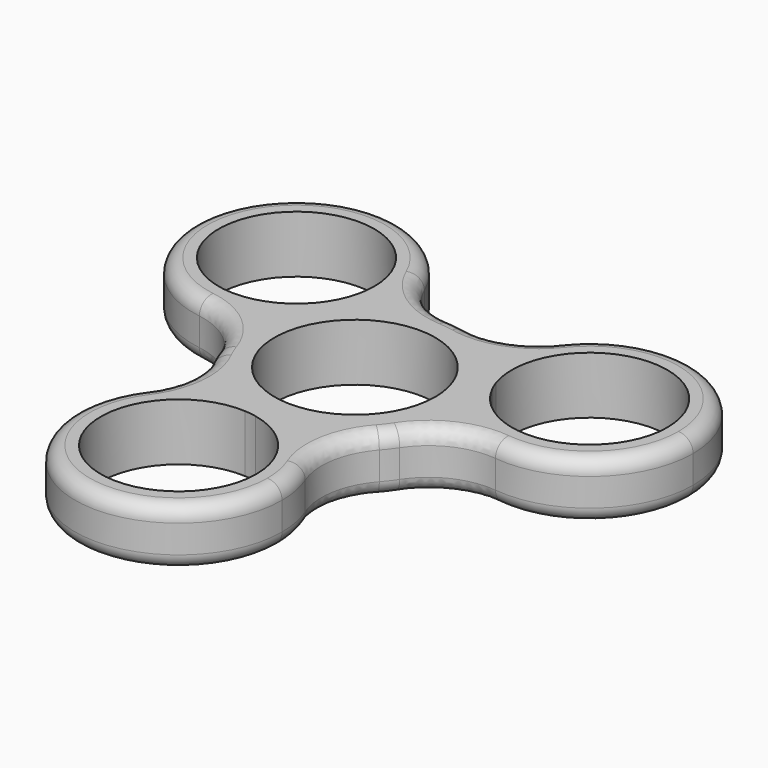
from build123d import *

# Parameters (mm, degrees)
F0_R     = 10.95
F1_DEPTH = 7.8
F2_R     = 10
F3_R     = 2


with BuildPart() as f1:
    # F0 (on Top) → F1 (new body)
    with BuildSketch(Plane.XY):
        with BuildLine():
            ThreePointArc((15.402267993, -1.2135240708), (15.4380623864, -0.6072312193), (15.45, 0))
            ThreePointArc((15.45, 0), (15.2257924237, 2.6225455325), (14.5596770136, 5.168975262))
            ThreePointArc((14.5596770136, 5.168975262), (14.2291886745, 5.8898378303), (13.9535168276, 6.6333903957))
            ThreePointArc((13.9535168276, 6.6333903957), (12.2652736708, 9.3949753476), (10.0387146571, 11.7442201969))
            ThreePointArc((10.0387146571, 11.7442201969), (10.9952821575, 4.5512383234), (15.402267993, -1.2135240708))
        make_face()
        with BuildLine():
            ThreePointArc((14.5596770136, 5.168975262), (15.2257924237, 2.6225455325), (15.45, 0))
            ThreePointArc((15.45, 0), (15.4380623864, -0.6072312193), (15.402267993, -1.2135240708))
            ThreePointArc((15.402267993, -1.2135240708), (30.238342577, -2.7124726692), (38.1233055543, 9.9438820511))
            ThreePointArc((38.1233055543, 9.9438820511), (24.9253222809, 24.0150001952), (10.0387146571, 11.7442201969))
            ThreePointArc((10.0387146571, 11.7442201969), (12.2652736708, 9.3949753476), (13.9535168276, 6.6333903957))
            ThreePointArc((13.9535168276, 6.6333903957), (22.3469643751, 20.4104899186), (34.6233055543, 9.9438820511))
            ThreePointArc((34.6233055543, 9.9438820511), (26.4774385447, -0.3681124827), (14.5596770136, 5.168975262))
        make_face()
        with BuildLine():
            ThreePointArc((5.1514357096, -14.5658920128), (12.2550037287, -9.4083677442), (15.402267993, -1.2135240708))
            ThreePointArc((15.402267993, -1.2135240708), (10.9952821575, 4.5512383234), (10.0387146571, 11.7442201969))
            ThreePointArc((10.0387146571, 11.7442201969), (2.0203836103, 15.3173284246), (-6.6501913232, 13.9455173933))
            ThreePointArc((-6.6501913232, 13.9455173933), (-9.4391290855, 7.2465745085), (-15.1901503667, 2.821671816))
            ThreePointArc((-15.1901503667, 2.821671816), (-14.275387339, -5.9089606804), (-8.7520766699, -12.7319933225))
            ThreePointArc((-8.7520766699, -12.7319933225), (-1.556153072, -11.7978128319), (5.1514357096, -14.5658920128))
        make_face()
        Circle(F0_R, mode=Mode.SUBTRACT)
        with BuildLine():
            ThreePointArc((10.7000016914, -25.7767339184), (9.2369558271, -19.5223442462), (5.1514357096, -14.5658920128))
            ThreePointArc((5.1514357096, -14.5658920128), (2.0036504835, -15.319526257), (-1.232073818, -15.4007952427))
            ThreePointArc((-1.232073818, -15.4007952427), (4.8261794065, -19.0916759382), (7.2000016914, -25.7767339184))
            ThreePointArc((7.2000016914, -25.7767339184), (-11.1033810434, -33.0580726993), (-2.8033746184, -15.1935377957))
            ThreePointArc((-2.8033746184, -15.1935377957), (-5.9073609943, -14.2760493864), (-8.7520766699, -12.7319933225))
            ThreePointArc((-8.7520766699, -12.7319933225), (-11.2532045044, -37.4872912257), (10.7000016914, -25.7767339184))
        make_face()
        with BuildLine():
            ThreePointArc((-1.232073818, -15.4007952427), (2.0036504835, -15.319526257), (5.1514357096, -14.5658920128))
            ThreePointArc((5.1514357096, -14.5658920128), (-1.556153072, -11.7978128319), (-8.7520766699, -12.7319933225))
            ThreePointArc((-8.7520766699, -12.7319933225), (-5.9073609943, -14.2760493864), (-2.8033746184, -15.1935377957))
            ThreePointArc((-2.8033746184, -15.1935377957), (-2.013845152, -15.2677577825), (-1.232073818, -15.4007952427))
        make_face()
        with BuildLine():
            ThreePointArc((-15.1901503667, 2.821671816), (-9.4391290855, 7.2465745085), (-6.6501913232, 13.9455173933))
            ThreePointArc((-6.6501913232, 13.9455173933), (-9.4097409371, 12.2539493836), (-11.7563023953, 10.0245625337))
            ThreePointArc((-11.7563023953, 10.0245625337), (-12.2153435224, 9.3779199522), (-12.7214430097, 8.767404847))
            ThreePointArc((-12.7214430097, 8.767404847), (-14.2689241543, 5.9245509095), (-15.1901503667, 2.821671816))
        make_face()
        with BuildLine():
            ThreePointArc((-11.7563023953, 10.0245625337), (-9.4097409371, 12.2539493836), (-6.6501913232, 13.9455173933))
            ThreePointArc((-6.6501913232, 13.9455173933), (-6.5550640272, 14.8870544543), (-6.5233072456, 15.8328518673))
            ThreePointArc((-6.5233072456, 15.8328518673), (-32.3582446548, 23.6495803392), (-15.1901503667, 2.821671816))
            ThreePointArc((-15.1901503667, 2.821671816), (-14.2689241543, 5.9245509095), (-12.7214430097, 8.767404847))
            ThreePointArc((-12.7214430097, 8.767404847), (-30.5258261399, 19.6144017545), (-10.0233072456, 15.8328518673))
            ThreePointArc((-10.0233072456, 15.8328518673), (-10.4657915205, 12.8021961143), (-11.7563023953, 10.0245625337))
        make_face()
    extrude(amount=F1_DEPTH)

    # F2
    f2_edges = [f1.edges().sort_by_distance(p)[0] for p in [
        (-15.19015, 2.821672, 3.9),
        (-6.650191, 13.945517, 3.9),
        (10.038715, 11.74422, 3.9),
        (15.402268, -1.213524, 3.9),
        (5.151436, -14.565892, 3.9),
        (-8.752077, -12.731993, 3.9),
    ]]
    fillet(f2_edges, radius=F2_R)

    # F3
    f3_edges = [f1.edges().sort_by_distance(p)[0] for p in [
        (17.026114, -4.935069, 0),
        (-12.786952, -12.277513, 7.8),
    ]]
    fillet(f3_edges, radius=F3_R)


solid = f1.part
